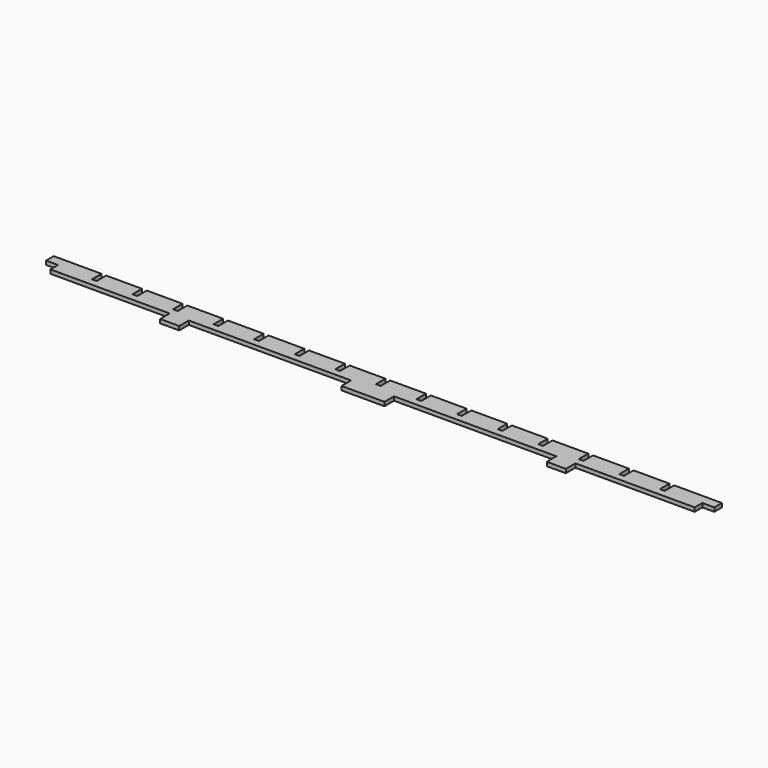
from build123d import *

# Parameters (mm, degrees)
SKETCH_W               = 280
SKETCH_H               = 8
PAD_DEPTH              = 1.65
SKETCH001_W            = 2
SKETCH001_H            = 5
POCKET_DEPTH           = 5
LINEARPATTERN_COUNT    = 15
LINEARPATTERN_PITCH    = 17
SKETCH002_W            = 5
SKETCH002_H            = 4
POCKET001_DEPTH        = 5
LINEARPATTERN001_COUNT = 2
LINEARPATTERN001_PITCH = 275
SKETCH003_W            = 8
SKETCH003_H            = 1.65
SKETCH003_W_2          = 18
PAD001_DEPTH           = 5


with BuildPart() as part:
    # Sketch → Pad (new body)
    with BuildSketch(Plane.XY):
        Rectangle(SKETCH_W, SKETCH_H)
    extrude(amount=PAD_DEPTH)

    # Sketch001 (on Face6 of Pad) → Pocket (cut)
    with BuildSketch(Plane.XY.offset(1.65)):
        with Locations((-119, 1.5)):
            Rectangle(SKETCH001_W, SKETCH001_H)
    pocket = extrude(amount=-POCKET_DEPTH, mode=Mode.SUBTRACT)

    # LinearPattern: Pocket ×15
    with Locations(*[(i * LINEARPATTERN_PITCH, 0, 0) for i in range(1, LINEARPATTERN_COUNT)]):
        add(pocket, mode=Mode.SUBTRACT)

    # Sketch002 (on Face4 of LinearPattern) → Pocket001 (cut)
    with BuildSketch(Plane.XY.offset(1.65)):
        with Locations((-137.5, -2)):
            Rectangle(SKETCH002_W, SKETCH002_H)
    pocket001 = extrude(amount=-POCKET001_DEPTH, mode=Mode.SUBTRACT)

    # LinearPattern001: Pocket001 ×2
    with Locations(*[(i * LINEARPATTERN001_PITCH, 0, 0) for i in range(1, LINEARPATTERN001_COUNT)]):
        add(pocket001, mode=Mode.SUBTRACT)

    # Sketch003 (on Face68 of LinearPattern001) → Pad001 (join)
    with BuildSketch(Plane.XZ.offset(4)):
        with Locations((-81, 0.825)):
            Rectangle(SKETCH003_W, SKETCH003_H)
        with Locations((0, 0.825)):
            Rectangle(SKETCH003_W_2, SKETCH003_H)
        with Locations((81, 0.825)):
            Rectangle(SKETCH003_W, SKETCH003_H)
    extrude(amount=PAD001_DEPTH)


solid = part.part
